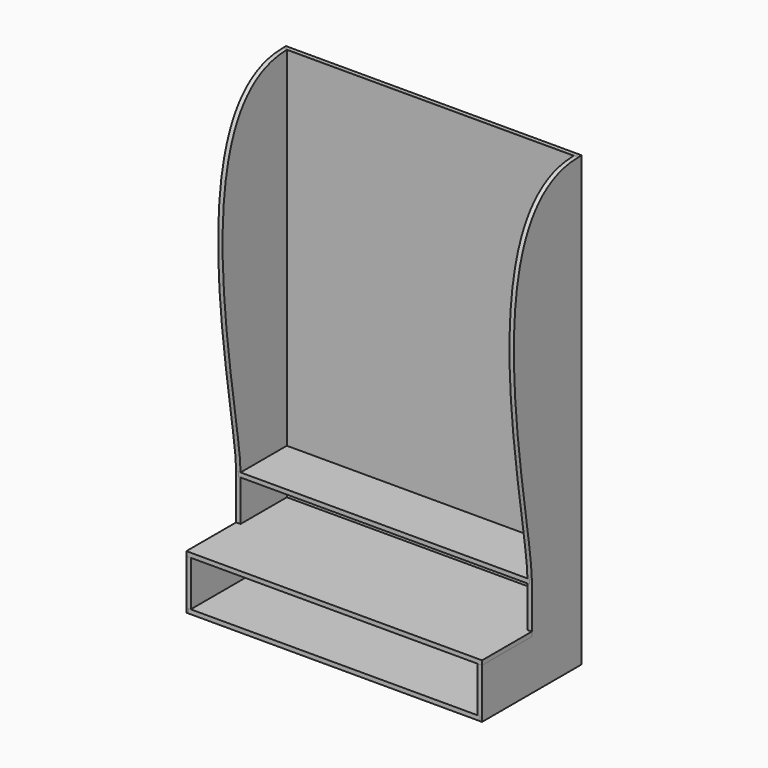
from build123d import *

# Parameters (mm, degrees)
F1_DEPTH  = 18
F3_DEPTH  = 9
F6_W      = 508
F6_H      = 18
F7_DEPTH  = 1188.5
F9_DEPTH  = 1188.5
F11_DEPTH = 1188.5
F14_DEPTH = 1206.5


with BuildPart() as f1:
    # F0 (on Right) → F1 (new body)
    with BuildSketch(Plane.YZ):
        with BuildLine():
            Line((-508, 0), (0, 0))
            Line((0, 0), (0, 1828.8))
            Line((0, 1828.8), (-12.7, 1828.8))
            add(Edge.make_bspline(
                [(-12.7, 1828.8), (-576.3234860751, 1828.8), (-254, 628.6125668436), (-254, 406.4)],
                knots=[0, 0, 0, 0, 1442.7222359138, 1442.7222359138, 1442.7222359138, 1442.7222359138], degree=3))
            Line((-254, 406.4), (-254, 203.2))
            Line((-254, 203.2), (-508, 203.2))
            Line((-508, 203.2), (-508, 0))
        make_face()
    extrude(amount=F1_DEPTH)

    # F2 (on face) → F3 (cut)
    with BuildSketch(Plane.YZ.offset(18)):
        with BuildLine():
            Line((0, 0), (0, 1828.8))
            Line((0, 1828.8), (-12.7, 1828.8))
            add(Edge.make_bspline(
                [(-12.7, 1828.8), (-14.4754451954, 1828.8), (-16.2420992729, 1828.7880907214), (-18, 1828.7643402483)],
                knots=[0, 0, 0, 0, 4.5446549432, 4.5446549432, 4.5446549432, 4.5446549432], degree=3))
            Line((-18, 1828.7643402483), (-18, 406.4))
            Line((-18, 406.4), (-254, 406.4))
            Line((-254, 406.4), (-254, 388.4))
            Line((-254, 388.4), (-18, 388.4))
            Line((-18, 388.4), (-18, 221.2))
            Line((-18, 221.2), (-254, 221.2))
            Line((-254, 221.2), (-254, 203.2))
            Line((-254, 203.2), (-18, 203.2))
            Line((-18, 203.2), (-18, 185.2))
            Line((-18, 185.2), (-18, 18))
            Line((-18, 18), (-508, 18))
            Line((-508, 18), (-508, 0))
            Line((-508, 0), (-19.05, 0))
            Line((-19.05, 0), (-18, 0))
            Line((-18, 0), (0, 0))
        make_face()
    extrude(amount=-F3_DEPTH, mode=Mode.SUBTRACT)


with BuildPart() as f5_1:
    # F5: instance of F1
    add(f1.part.mirror(Plane(origin=(603.25, -169.4224722203, 860.4731479353), x_dir=(0, 1, 0), z_dir=(-1, 0, 0))))


with BuildPart() as f7:
    # F6 (on face) → F7 (new body, through all)
    with BuildSketch(Plane.YZ.offset(9)):
        with Locations((-254, 9)):
            Rectangle(F6_W, F6_H)
    extrude(amount=F7_DEPTH)


with BuildPart() as f9:
    # F8 (on face) → F9 (new body, through all)
    with BuildSketch(Plane.YZ.offset(9)):
        with BuildLine():
            Line((0, 18), (0, 1828.8))
            Line((0, 1828.8), (-12.7, 1828.8))
            add(Edge.make_bspline(
                [(-12.7, 1828.8), (-14.4754451954, 1828.8), (-16.2420992729, 1828.7880907214), (-18, 1828.7643402483)],
                knots=[0, 0, 0, 0, 4.5446549432, 4.5446549432, 4.5446549432, 4.5446549432], degree=3))
            Line((-18, 1828.7643402483), (-18, 406.4))
            Line((-18, 406.4), (-18, 388.4))
            Line((-18, 388.4), (-18, 221.2))
            Line((-18, 221.2), (-18, 203.2))
            Line((-18, 203.2), (-18, 18))
            Line((-18, 18), (0, 18))
        make_face()
    extrude(amount=F9_DEPTH)


with BuildPart() as f11:
    # F10 (on face) → F11 (new body, through all)
    with BuildSketch(Plane.YZ.offset(9)):
        Polygon((-254, 406.4), (-254, 388.4), (-18, 388.4), (-9, 388.4), (-9, 406.4), (-18, 406.4), align=None)
    extrude(amount=F11_DEPTH)


with BuildPart() as f14:
    # F13 (on face) → F14 (new body, through all)
    with BuildSketch(Plane(origin=(0, 0, 0), x_dir=(0, -1, 0), z_dir=(-1, 0, 0))):
        Polygon((508, 203.2), (508, 221.2), (18, 221.2), (9, 221.2), (9, 203.2), (18, 203.2), align=None)
    extrude(amount=-F14_DEPTH)

    # F15: cut F1, F5_1
    add(f1.part, mode=Mode.SUBTRACT)
    add(f5_1.part, mode=Mode.SUBTRACT)


with BuildPart() as f9_1:
    add(f9.part)

    # F16: cut F11, F14
    add(f11.part, mode=Mode.SUBTRACT)
    add(f14.part, mode=Mode.SUBTRACT)


solid = Compound([f1.part, f5_1.part, f7.part, f11.part, f14.part, f9_1.part])
